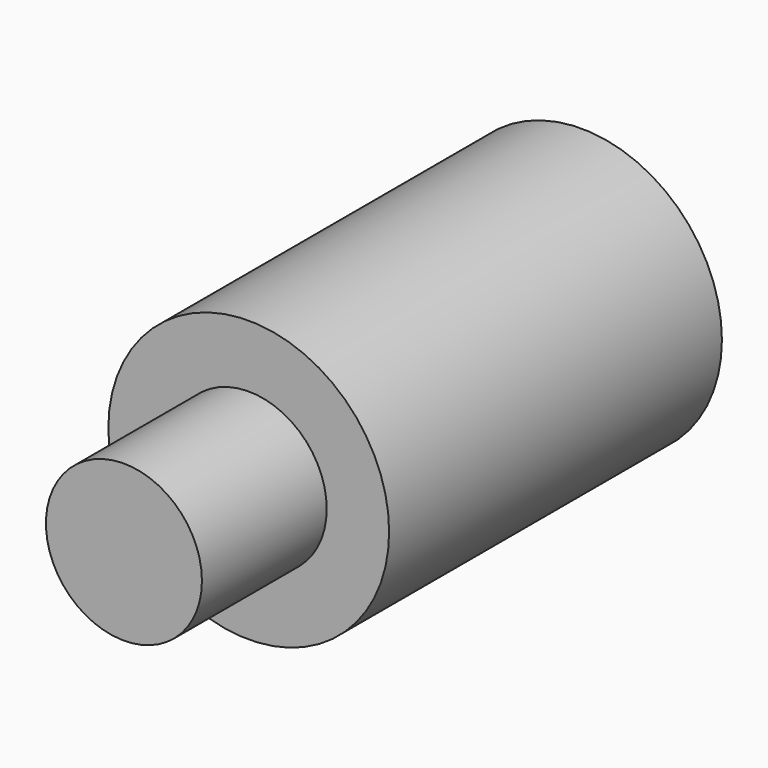
from build123d import *

# Parameters (mm, degrees)
CYLINDER013_R     = 2.7
CYLINDER013_DEPTH = 8
CYLINDER009_R     = 1.5
CYLINDER009_DEPTH = 11


with BuildPart() as cylinder013:
    # Cylinder013 → Cylinder013 (new body)
    with BuildSketch(Plane(origin=(53.5, 37.6, 25.25), x_dir=(1, 0, 0), z_dir=(0, -1, 0))):
        Circle(CYLINDER013_R)
    extrude(amount=CYLINDER013_DEPTH)


with BuildPart() as fusion017:
    # Cylinder009 → Cylinder009 (new body)
    with BuildSketch(Plane(origin=(53.5, 37.6, 25.25), x_dir=(1, 0, 0), z_dir=(0, -1, 0))):
        Circle(CYLINDER009_R)
    extrude(amount=CYLINDER009_DEPTH)

    # Fusion017: union Cylinder013
    add(cylinder013.part)


solid = fusion017.part
